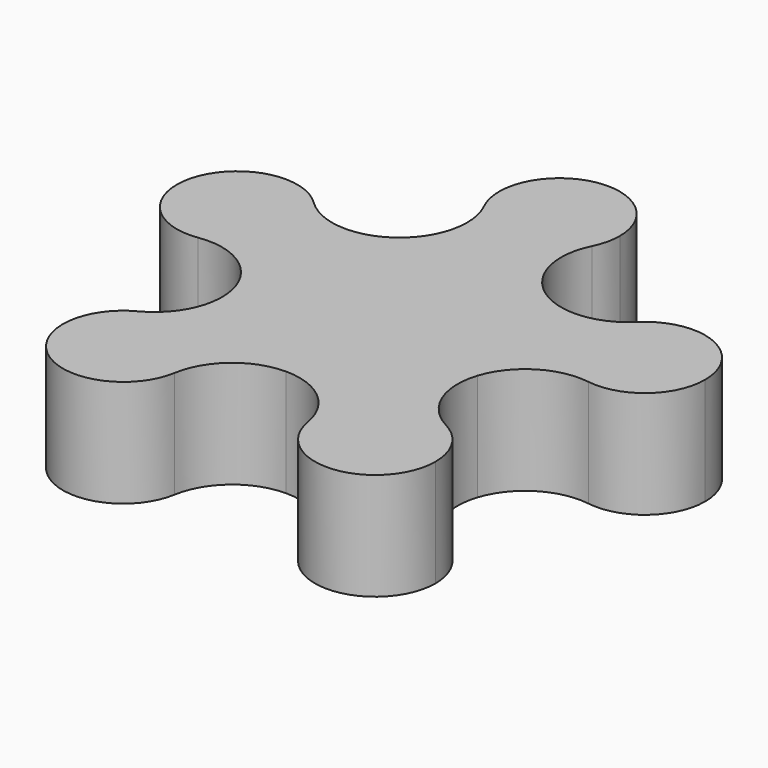
from build123d import *

# Parameters (mm, degrees)
F1_DEPTH = 16


with BuildPart() as f1:
    # F0 (on Top) → F1 (new body)
    with BuildSketch(Plane.XY):
        with BuildLine():
            ThreePointArc((-8.062995, 28.001486), (0, 23), (8.062995, 28.001486))
            ThreePointArc((8.062995, 28.001486), (8.762618, 29.946582), (9, 32))
            ThreePointArc((9, 32), (-2.053418, 40.762618), (-8.062995, 28.001486))
        make_face()
        with BuildLine():
            ThreePointArc((39.433809, 9.888544), (33.923096, 18.184619), (24.139393, 16.321298))
            ThreePointArc((24.139393, 16.321298), (21.8743, 7.107391), (29.122598, 0.984571))
            ThreePointArc((29.122598, 0.984571), (36.315947, 3.076756), (39.433809, 9.888544))
        make_face()
        with BuildLine():
            ThreePointArc((27.809128, -25.888544), (26.508332, -21.22783), (22.98196, -17.914368))
            ThreePointArc((22.98196, -17.914368), (13.519061, -18.607391), (9.935761, -27.392987))
            ThreePointArc((9.935761, -27.392987), (19.56401, -34.85683), (27.809128, -25.888544))
        make_face()
        with BuildLine():
            ThreePointArc((-22.98196, -17.914368), (-24.099195, -33.169697), (-9.935761, -27.392987))
            ThreePointArc((-9.935761, -27.392987), (-9.840842, -26.643425), (-9.809128, -25.888544))
            ThreePointArc((-9.809128, -25.888544), (-14.148414, -18.18934), (-22.98196, -17.914368))
        make_face()
        with BuildLine():
            ThreePointArc((-21.433809, 9.888544), (-22.137733, 13.377832), (-24.139393, 16.321298))
            ThreePointArc((-24.139393, 16.321298), (-38.993317, 12.669697), (-29.122598, 0.984571))
            ThreePointArc((-29.122598, 0.984571), (-23.622021, 4.006406), (-21.433809, 9.888544))
        make_face()
        with BuildLine():
            ThreePointArc((18.070074, -5.871323), (18.766078, -2.972255), (19, 0))
            ThreePointArc((19, 0), (16.929124, 8.625819), (11.16792, 15.371323))
            ThreePointArc((11.16792, 15.371323), (0, 19), (-11.16792, 15.371323))
            ThreePointArc((-11.16792, 15.371323), (-18.070074, 5.871323), (-18.070074, -5.871323))
            ThreePointArc((-18.070074, -5.871323), (-11.16792, -15.371323), (0, -19))
            ThreePointArc((0, -19), (11.16792, -15.371323), (18.070074, -5.871323))
        make_face()
        with BuildLine():
            ThreePointArc((22.98196, -17.914368), (18.32313, -12.791317), (18.070074, -5.871323))
            ThreePointArc((18.070074, -5.871323), (11.16792, -15.371323), (0, -19))
            ThreePointArc((0, -19), (6.503106, -21.379067), (9.935761, -27.392987))
            ThreePointArc((9.935761, -27.392987), (13.519061, -18.607391), (22.98196, -17.914368))
        make_face()
        with BuildLine():
            ThreePointArc((-9.935761, -27.392987), (-6.503106, -21.379067), (0, -19))
            ThreePointArc((0, -19), (-11.16792, -15.371323), (-18.070074, -5.871323))
            ThreePointArc((-18.070074, -5.871323), (-18.32313, -12.791317), (-22.98196, -17.914368))
            ThreePointArc((-22.98196, -17.914368), (-14.148414, -18.18934), (-9.809128, -25.888544))
            ThreePointArc((-9.809128, -25.888544), (-9.840842, -26.643425), (-9.935761, -27.392987))
        make_face()
        with BuildLine():
            ThreePointArc((-18.070074, -5.871323), (-18.070074, 5.871323), (-11.16792, 15.371323))
            ThreePointArc((-11.16792, 15.371323), (-17.827424, 13.473598), (-24.139393, 16.321298))
            ThreePointArc((-24.139393, 16.321298), (-22.137733, 13.377832), (-21.433809, 9.888544))
            ThreePointArc((-21.433809, 9.888544), (-23.622021, 4.006406), (-29.122598, 0.984571))
            ThreePointArc((-29.122598, 0.984571), (-22.342271, -0.421673), (-18.070074, -5.871323))
        make_face()
        with BuildLine():
            ThreePointArc((-11.16792, 15.371323), (0, 19), (11.16792, 15.371323))
            ThreePointArc((11.16792, 15.371323), (7.305177, 21.118458), (8.062995, 28.001486))
            ThreePointArc((8.062995, 28.001486), (0, 23), (-8.062995, 28.001486))
            ThreePointArc((-8.062995, 28.001486), (-7.305177, 21.118458), (-11.16792, 15.371323))
        make_face()
        with BuildLine():
            ThreePointArc((11.16792, 15.371323), (16.929124, 8.625819), (19, 0))
            ThreePointArc((19, 0), (18.766078, -2.972255), (18.070074, -5.871323))
            ThreePointArc((18.070074, -5.871323), (22.342271, -0.421673), (29.122598, 0.984571))
            ThreePointArc((29.122598, 0.984571), (21.8743, 7.107391), (24.139393, 16.321298))
            ThreePointArc((24.139393, 16.321298), (17.827424, 13.473598), (11.16792, 15.371323))
        make_face()
    extrude(amount=F1_DEPTH)


solid = f1.part
